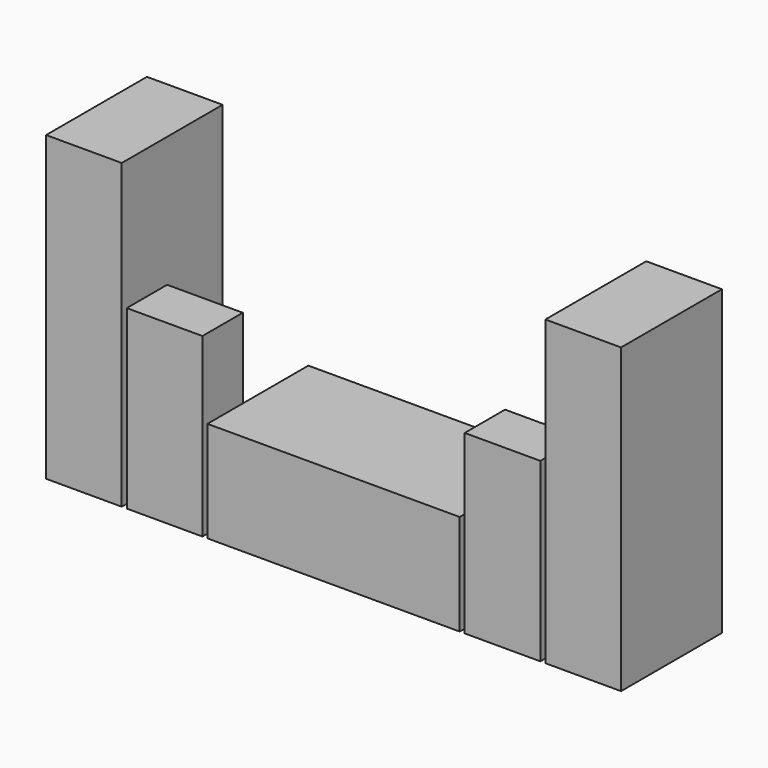
from build123d import *

# Parameters (mm, degrees)
F0_W     = 5000
F0_H     = 2000
F3_DEPTH = 2500
F2_W     = 1500
F2_H     = 3500
F4_DEPTH = 1000
F2_H_2   = 6000
F5_DEPTH = 2500


with BuildPart() as f3:
    # F0 (on Front) → F3 (new body)
    with BuildSketch(Plane.XZ):
        with Locations((2425.410382, -1000)):
            Rectangle(F0_W, F0_H)
    extrude(amount=-F3_DEPTH)


with BuildPart() as f4:
    # F2 (on Front) → F4 (new body)
    with BuildSketch(Plane.XZ):
        with Locations((-924.589618, -250)):
            Rectangle(F2_W, F2_H)
        with Locations((5775.410382, -250)):
            Rectangle(F2_W, F2_H)
    extrude(amount=-F4_DEPTH)


with BuildPart() as f5:
    # F2 (on Front) → F5 (new body)
    with BuildSketch(Plane.XZ):
        with Locations((-2524.589618, 1000)):
            Rectangle(F2_W, F2_H_2)
        with Locations((7375.410382, 1000)):
            Rectangle(F2_W, F2_H_2)
    extrude(amount=-F5_DEPTH)


solid = Compound([f3.part, f4.part, f5.part])
